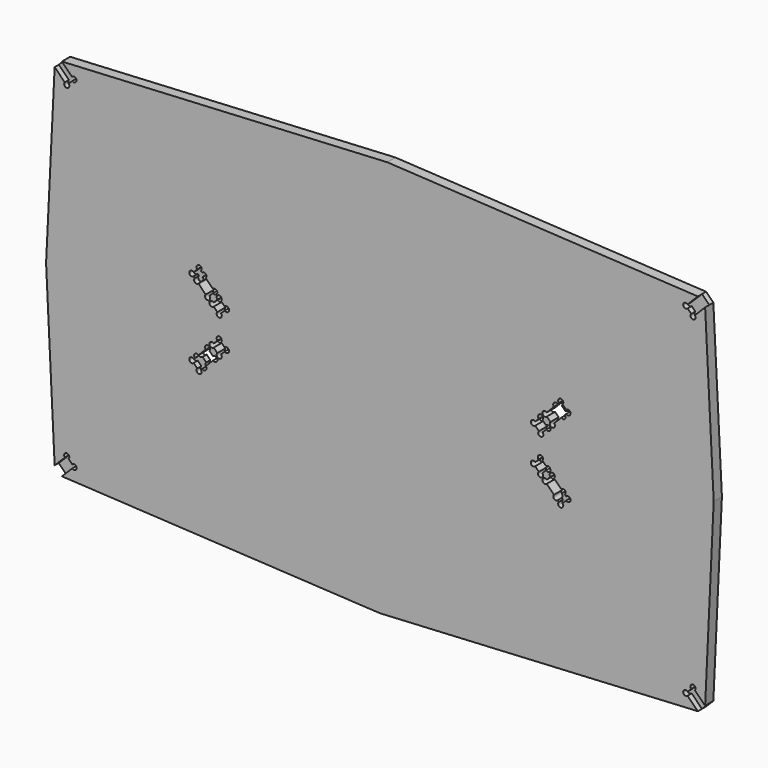
from build123d import *

# Parameters (mm, degrees)
F5_DEPTH  = 18
F6_DEPTH  = 9
F7_DEPTH  = 9
F8_DEPTH  = 9
F9_DEPTH  = 9
F11_DEPTH = 9
F13_DEPTH = 9
F15_DEPTH = 18
F16_DEPTH = 18
F17_DEPTH = 18
F18_DEPTH = 18
F19_DEPTH = 9
F20_DEPTH = 9


with BuildPart() as f5:
    # F0 (on Front) → F5 (new body)
    with BuildSketch(Plane.XZ):
        with BuildLine():
            Line((557.27, 320), (-557.27, 320))
            Line((-557.27, 320), (-539.445258, 302.175258))
            ThreePointArc((-539.445258, 302.175258), (-531.610557, 299.427978), (-539.066952, 295.776641))
            Line((-539.066952, 295.776641), (-545.351348, 289.492245))
            ThreePointArc((-545.351348, 289.492245), (-544.268953, 286.200991), (-545.846104, 283.116104))
            ThreePointArc((-545.846104, 283.116104), (-551.937447, 283.367141), (-552.188484, 289.458484))
            Line((-552.188484, 289.458484), (-570, 307.27))
            Line((-570, 307.27), (-570, -307.27))
            Line((-570, -307.27), (-551.968777, -289.238777))
            ThreePointArc((-551.968777, -289.238777), (-548.786797, -281.556797), (-545.604816, -289.238777))
            Line((-545.604816, -289.238777), (-539.238777, -295.604816))
            ThreePointArc((-539.238777, -295.604816), (-531.556797, -298.786797), (-539.238777, -301.968777))
            Line((-539.238777, -301.968777), (-557.27, -320))
            Line((-557.27, -320), (557.27, -320))
            Line((557.27, -320), (539.238777, -301.968777))
            ThreePointArc((539.238777, -301.968777), (531.556797, -298.786797), (539.238777, -295.604816))
            Line((539.238777, -295.604816), (545.604816, -289.238777))
            ThreePointArc((545.604816, -289.238777), (548.786797, -281.556797), (551.968777, -289.238777))
            Line((551.968777, -289.238777), (570, -307.27))
            Line((570, -307.27), (570, 307.27))
            Line((570, 307.27), (551.968777, 289.238777))
            ThreePointArc((551.968777, 289.238777), (548.786797, 281.556797), (545.604816, 289.238777))
            Line((545.604816, 289.238777), (539.238777, 295.604816))
            ThreePointArc((539.238777, 295.604816), (531.556797, 298.786797), (539.238777, 301.968777))
            Line((539.238777, 301.968777), (557.27, 320))
        make_face()
        with BuildLine():
            ThreePointArc((-326.401714, -70.035675), (-334.083694, -66.853694), (-326.401714, -63.671714))
            Line((-326.401714, -63.671714), (-324.280394, -61.550394))
            ThreePointArc((-324.280394, -61.550394), (-324.280394, -55.186433), (-317.916433, -55.186433))
            Line((-317.916433, -55.186433), (-305.18851, -42.45851))
            ThreePointArc((-305.18851, -42.45851), (-302.00653, -34.77653), (-298.824549, -42.45851))
            Line((-298.824549, -42.45851), (-292.460588, -48.822471))
            ThreePointArc((-292.460588, -48.822471), (-284.778608, -52.004452), (-292.460588, -55.186433))
            Line((-292.460588, -55.186433), (-305.18851, -67.914355))
            ThreePointArc((-305.18851, -67.914355), (-305.18851, -74.278316), (-311.552471, -74.278316))
            Line((-311.552471, -74.278316), (-313.673792, -76.399636))
            ThreePointArc((-313.673792, -76.399636), (-316.855772, -84.081616), (-320.037753, -76.399636))
            Line((-320.037753, -76.399636), (-326.401714, -70.035675))
        make_face(mode=Mode.SUBTRACT)
        with BuildLine():
            Line((-284.78848, -41.150363), (-291.152441, -34.786402))
            ThreePointArc((-291.152441, -34.786402), (-298.834421, -31.604421), (-291.152441, -28.422441))
            Line((-291.152441, -28.422441), (-284.78848, -22.05848))
            ThreePointArc((-284.78848, -22.05848), (-281.606499, -14.376499), (-278.424519, -22.05848))
            Line((-278.424519, -22.05848), (-272.060558, -28.422441))
            ThreePointArc((-272.060558, -28.422441), (-264.378577, -31.604421), (-272.060558, -34.786402))
            Line((-272.060558, -34.786402), (-278.424519, -41.150363))
            ThreePointArc((-278.424519, -41.150363), (-281.606499, -48.832343), (-284.78848, -41.150363))
        make_face(mode=Mode.SUBTRACT)
        with BuildLine():
            ThreePointArc((291.150363, -28.424519), (298.832343, -31.606499), (291.150363, -34.78848))
            Line((291.150363, -34.78848), (284.549262, -41.389581))
            ThreePointArc((284.549262, -41.389581), (281.363878, -49.163937), (278.526081, -41.256081))
            Line((278.526081, -41.256081), (272.058465, -34.788465))
            ThreePointArc((272.058465, -34.788465), (264.366901, -31.622893), (272.048877, -28.434122))
            Line((272.048877, -28.434122), (278.203714, -22.279285))
            ThreePointArc((278.203714, -22.279285), (281.032829, -14.491542), (284.664694, -21.93885))
            Line((284.664694, -21.93885), (291.150363, -28.424519))
        make_face(mode=Mode.SUBTRACT)
        with BuildLine():
            Line((326.399636, -70.037753), (320.035675, -76.401714))
            ThreePointArc((320.035675, -76.401714), (316.853694, -84.083694), (313.671714, -76.401714))
            Line((313.671714, -76.401714), (311.550394, -74.280394))
            ThreePointArc((311.550394, -74.280394), (305.186433, -74.280394), (305.186433, -67.916433))
            Line((305.186433, -67.916433), (292.45851, -55.18851))
            ThreePointArc((292.45851, -55.18851), (284.77653, -52.00653), (292.45851, -48.824549))
            Line((292.45851, -48.824549), (298.822471, -42.460588))
            ThreePointArc((298.822471, -42.460588), (302.004452, -34.778608), (305.186433, -42.460588))
            Line((305.186433, -42.460588), (317.914355, -55.18851))
            ThreePointArc((317.914355, -55.18851), (324.278316, -55.18851), (324.278316, -61.552471))
            Line((324.278316, -61.552471), (326.399636, -63.673792))
            ThreePointArc((326.399636, -63.673792), (334.081616, -66.855772), (326.399636, -70.037753))
        make_face(mode=Mode.SUBTRACT)
        with BuildLine():
            ThreePointArc((-332.765675, 70.035675), (-329.583694, 71.353694), (-326.401714, 70.035675))
            Line((-326.401714, 70.035675), (-320.035675, 76.401714))
            ThreePointArc((-320.035675, 76.401714), (-316.853694, 84.083694), (-313.671714, 76.401714))
            Line((-313.671714, 76.401714), (-311.550394, 74.280394))
            ThreePointArc((-311.550394, 74.280394), (-305.186433, 74.280394), (-305.186433, 67.916433))
            Line((-305.186433, 67.916433), (-292.535713, 55.265713))
            ThreePointArc((-292.535713, 55.265713), (-284.947616, 51.982662), (-292.550068, 48.732991))
            Line((-292.550068, 48.732991), (-298.824549, 42.45851))
            ThreePointArc((-298.824549, 42.45851), (-302.00653, 34.77653), (-305.18851, 42.45851))
            Line((-305.18851, 42.45851), (-317.916433, 55.186433))
            ThreePointArc((-317.916433, 55.186433), (-324.280394, 55.186433), (-324.280394, 61.550394))
            Line((-324.280394, 61.550394), (-326.401714, 63.671714))
            ThreePointArc((-326.401714, 63.671714), (-332.765675, 63.671714), (-332.765675, 70.035675))
        make_face(mode=Mode.SUBTRACT)
        with BuildLine():
            Line((-291.152441, 34.786402), (-284.786402, 41.152441))
            ThreePointArc((-284.786402, 41.152441), (-281.604421, 48.834421), (-278.422441, 41.152441))
            Line((-278.422441, 41.152441), (-272.05848, 34.78848))
            ThreePointArc((-272.05848, 34.78848), (-264.376499, 31.606499), (-272.05848, 28.424519))
            Line((-272.05848, 28.424519), (-278.424519, 22.05848))
            ThreePointArc((-278.424519, 22.05848), (-281.606499, 14.376499), (-284.78848, 22.05848))
            Line((-284.78848, 22.05848), (-291.152441, 28.422441))
            ThreePointArc((-291.152441, 28.422441), (-298.834421, 31.604421), (-291.152441, 34.786402))
        make_face(mode=Mode.SUBTRACT)
        with BuildLine():
            Line((284.939438, 40.835558), (291.358448, 34.527126))
            ThreePointArc((291.358448, 34.527126), (299.067783, 31.412005), (291.413737, 28.163405))
            Line((291.413737, 28.163405), (285.105305, 21.744395))
            ThreePointArc((285.105305, 21.744395), (281.990185, 14.03506), (278.741584, 21.689106))
            Line((278.741584, 21.689106), (272.322574, 27.997538))
            ThreePointArc((272.322574, 27.997538), (264.613239, 31.112658), (272.267285, 34.361258))
            Line((272.267285, 34.361258), (278.575717, 40.780268))
            ThreePointArc((278.575717, 40.780268), (281.690838, 48.489604), (284.939438, 40.835558))
        make_face(mode=Mode.SUBTRACT)
        with BuildLine():
            ThreePointArc((326.401714, 70.035675), (334.083694, 66.853694), (326.401714, 63.671714))
            Line((326.401714, 63.671714), (324.280394, 61.550394))
            ThreePointArc((324.280394, 61.550394), (324.294186, 55.200285), (317.944197, 55.158908))
            Line((317.944197, 55.158908), (305.327334, 42.320888))
            ThreePointArc((305.327334, 42.320888), (302.212213, 34.611553), (298.963613, 42.265599))
            Line((298.963613, 42.265599), (292.544118, 48.574507))
            ThreePointArc((292.544118, 48.574507), (284.834783, 51.689627), (292.488829, 54.938228))
            Line((292.488829, 54.938228), (305.105693, 67.776248))
            ThreePointArc((305.105693, 67.776248), (305.064136, 74.153881), (311.441889, 74.167733))
            Line((311.441889, 74.167733), (313.673792, 76.399636))
            ThreePointArc((313.673792, 76.399636), (316.855772, 84.081616), (320.037753, 76.399636))
            Line((320.037753, 76.399636), (326.401714, 70.035675))
        make_face(mode=Mode.SUBTRACT)
    extrude(amount=F5_DEPTH)

    # F1 (on face) → F6 (join)
    with BuildSketch(Plane.XZ):
        with BuildLine():
            ThreePointArc((-539.066952, 295.776641), (-531.610557, 299.427978), (-539.445258, 302.175258))
            Line((-539.445258, 302.175258), (-557.27, 320))
            Line((-557.27, 320), (-570, 307.27))
            Line((-570, 307.27), (-552.188484, 289.458484))
            ThreePointArc((-552.188484, 289.458484), (-551.937447, 283.367141), (-545.846104, 283.116104))
            ThreePointArc((-545.846104, 283.116104), (-544.268953, 286.200991), (-545.351348, 289.492245))
            Line((-545.351348, 289.492245), (-539.066952, 295.776641))
        make_face()
    extrude(amount=F6_DEPTH)

    # F2 (on face) → F7 (join)
    with BuildSketch(Plane.XZ):
        with BuildLine():
            ThreePointArc((-545.604816, -289.238777), (-548.786797, -281.556797), (-551.968777, -289.238777))
            Line((-551.968777, -289.238777), (-570, -307.27))
            Line((-570, -307.27), (-557.27, -320))
            Line((-557.27, -320), (-539.238777, -301.968777))
            ThreePointArc((-539.238777, -301.968777), (-531.556797, -298.786797), (-539.238777, -295.604816))
            Line((-539.238777, -295.604816), (-545.604816, -289.238777))
        make_face()
    extrude(amount=F7_DEPTH)

    # F4 (on face) → F8 (join)
    with BuildSketch(Plane.XZ):
        with BuildLine():
            Line((539.238777, -301.968777), (557.27, -320))
            Line((557.27, -320), (570, -307.27))
            Line((570, -307.27), (551.968777, -289.238777))
            ThreePointArc((551.968777, -289.238777), (548.786797, -281.556797), (545.604816, -289.238777))
            Line((545.604816, -289.238777), (539.238777, -295.604816))
            ThreePointArc((539.238777, -295.604816), (531.556797, -298.786797), (539.238777, -301.968777))
        make_face()
    extrude(amount=F8_DEPTH)

    # F3 (on face) → F9 (join)
    with BuildSketch(Plane.XZ):
        with BuildLine():
            Line((551.968777, 289.238777), (570, 307.27))
            Line((570, 307.27), (557.27, 320))
            Line((557.27, 320), (539.238777, 301.968777))
            ThreePointArc((539.238777, 301.968777), (531.556797, 298.786797), (539.238777, 295.604816))
            Line((539.238777, 295.604816), (545.604816, 289.238777))
            ThreePointArc((545.604816, 289.238777), (548.786797, 281.556797), (551.968777, 289.238777))
        make_face()
    extrude(amount=F9_DEPTH)

    # F10 (on face) → F11 (join)
    with BuildSketch(Plane.XZ):
        with BuildLine():
            ThreePointArc((-313.671714, 76.401714), (-316.853694, 84.083694), (-320.035675, 76.401714))
            Line((-320.035675, 76.401714), (-326.401714, 70.035675))
            ThreePointArc((-326.401714, 70.035675), (-329.583694, 71.353694), (-332.765675, 70.035675))
            ThreePointArc((-332.765675, 70.035675), (-332.765675, 63.671714), (-326.401714, 63.671714))
            Line((-326.401714, 63.671714), (-324.280394, 61.550394))
            ThreePointArc((-324.280394, 61.550394), (-324.280394, 55.186433), (-317.916433, 55.186433))
            ThreePointArc((-317.916433, 55.186433), (-316.598413, 58.368413), (-317.916433, 61.550394))
            Line((-317.916433, 61.550394), (-311.550394, 67.916433))
            ThreePointArc((-311.550394, 67.916433), (-308.368413, 66.598413), (-305.186433, 67.916433))
            ThreePointArc((-305.186433, 67.916433), (-305.186433, 74.280394), (-311.550394, 74.280394))
            Line((-311.550394, 74.280394), (-313.671714, 76.401714))
        make_face()
    extrude(amount=F11_DEPTH)

    # F12 (on face) → F13 (join)
    with BuildSketch(Plane.XZ):
        with BuildLine():
            ThreePointArc((-317.916433, -61.550394), (-321.098413, -62.868413), (-324.280394, -61.550394))
            Line((-324.280394, -61.550394), (-326.401714, -63.671714))
            ThreePointArc((-326.401714, -63.671714), (-334.083694, -66.853694), (-326.401714, -70.035675))
            Line((-326.401714, -70.035675), (-320.037753, -76.399636))
            ThreePointArc((-320.037753, -76.399636), (-316.855772, -84.081616), (-313.673792, -76.399636))
            Line((-313.673792, -76.399636), (-311.552471, -74.278316))
            ThreePointArc((-311.552471, -74.278316), (-312.870491, -71.096335), (-311.552471, -67.914355))
            Line((-311.552471, -67.914355), (-317.916433, -61.550394))
        make_face()
    extrude(amount=F13_DEPTH)

    # F14 (on face) → F15 (join)
    with BuildSketch(Plane.XZ):
        Polygon((557.27, 320), (12.73, 350), (-557.27, 320), align=None)
    extrude(amount=F15_DEPTH)

    # F0 (on Front) → F16 (join)
    with BuildSketch(Plane.XZ):
        Polygon((-570, -307.27), (-570, 307.27), (-585, 0), align=None)
    extrude(amount=F16_DEPTH)

    # F0 (on Front) → F17 (join)
    with BuildSketch(Plane.XZ):
        Polygon((557.27, -320), (-557.27, -320), (0, -350), align=None)
    extrude(amount=F17_DEPTH)

    # F0 (on Front) → F18 (join)
    with BuildSketch(Plane.XZ):
        Polygon((585, 12.73), (570, 307.27), (570, -307.27), align=None)
    extrude(amount=F18_DEPTH)

    # F0 (on Front) → F19 (join)
    with BuildSketch(Plane.XZ):
        with BuildLine():
            ThreePointArc((313.671714, -76.401714), (316.853694, -84.083694), (320.035675, -76.401714))
            Line((320.035675, -76.401714), (326.399636, -70.037753))
            ThreePointArc((326.399636, -70.037753), (334.081616, -66.855772), (326.399636, -63.673792))
            Line((326.399636, -63.673792), (324.278316, -61.552471))
            ThreePointArc((324.278316, -61.552471), (321.096335, -62.870491), (317.914355, -61.552471))
            Line((317.914355, -61.552471), (311.550394, -67.916433))
            ThreePointArc((311.550394, -67.916433), (312.868413, -71.098413), (311.550394, -74.280394))
            Line((311.550394, -74.280394), (313.671714, -76.401714))
        make_face()
    extrude(amount=F19_DEPTH)

    # F0 (on Front) → F20 (join)
    with BuildSketch(Plane.XZ):
        with BuildLine():
            Line((324.280394, 61.550394), (326.401714, 63.671714))
            ThreePointArc((326.401714, 63.671714), (334.083694, 66.853694), (326.401714, 70.035675))
            Line((326.401714, 70.035675), (320.037753, 76.399636))
            ThreePointArc((320.037753, 76.399636), (316.855772, 84.081616), (313.673792, 76.399636))
            Line((313.673792, 76.399636), (311.441889, 74.167733))
            ThreePointArc((311.441889, 74.167733), (312.759866, 71.005301), (311.469414, 67.831537))
            Line((311.469414, 67.831537), (317.888908, 61.522629))
            ThreePointArc((317.888908, 61.522629), (321.078865, 62.868371), (324.280394, 61.550394))
        make_face()
    extrude(amount=F20_DEPTH)


solid = f5.part
